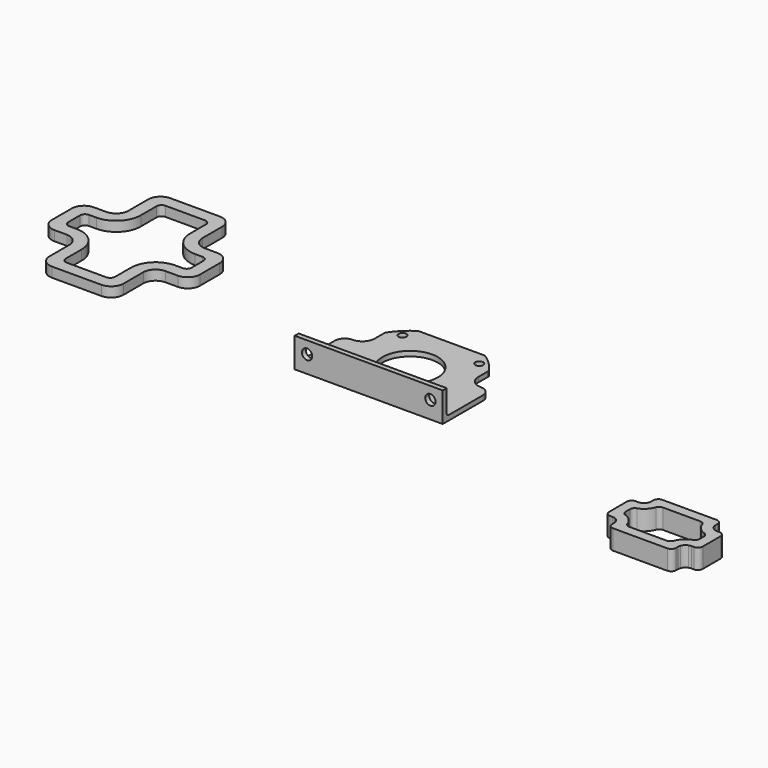
from build123d import *

# Parameters (mm, degrees)
F0_R      = 1.6
F0_R_2    = 11.2
F1_DEPTH  = 2
F2_DEPTH  = 12
F5_DEPTH  = 40
F6_DEPTH  = 20
F3_R      = 2.1
F7_DEPTH  = 25
F8_DEPTH  = 25
F9_R      = 1
F11_DEPTH = 4
F12_DEPTH = 8
F13_R     = 2


with BuildPart() as f1:
    # F0 (on Top) → F1 (new body)
    with BuildSketch(Plane.XY):
        with BuildLine():
            Line((13.5646599663, 21), (-13.5646599663, 21))
            ThreePointArc((-13.5646599663, 21), (-17.6776695297, 17.6776695297), (-21, 13.5646599663))
            Line((-21, 13.5646599663), (-21, 8.2917585839))
            ThreePointArc((-21, 8.2917585839), (-22.4644660941, 4.7562246779), (-26, 3.2917585839))
            ThreePointArc((-26, 3.2917585839), (-28.8284271247, 2.1201857086), (-30, -0.7082414161))
            Line((-30, -0.7082414161), (-30, -19))
            Line((-30, -19), (-21, -19))
            Line((-21, -19), (21, -19))
            Line((21, -19), (30, -19))
            Line((30, -19), (30, -0.7082414161))
            ThreePointArc((30, -0.7082414161), (28.8284271247, 2.1201857086), (26, 3.2917585839))
            ThreePointArc((26, 3.2917585839), (22.4644660941, 4.7562246779), (21, 8.2917585839))
            Line((21, 8.2917585839), (21, 13.5646599663))
            ThreePointArc((21, 13.5646599663), (17.6776695297, 17.6776695297), (13.5646599663, 21))
        make_face()
        with Locations((-15.5563491861, -15.5563491861)):
            Circle(F0_R, mode=Mode.SUBTRACT)
        with Locations((15.5563491861, -15.5563491861)):
            Circle(F0_R, mode=Mode.SUBTRACT)
        with Locations((-15.5563491861, 15.5563491861)):
            Circle(F0_R, mode=Mode.SUBTRACT)
        Circle(F0_R_2, mode=Mode.SUBTRACT)
        with Locations((15.5563491861, 15.5563491861)):
            Circle(F0_R, mode=Mode.SUBTRACT)
    extrude(amount=F1_DEPTH)

    # F0 (on Top) → F2 (join)
    with BuildSketch(Plane.XY):
        Polygon((-21, -19), (-30, -19), (-30, -21), (-21, -21), (21, -21), (30, -21), (30, -19), (21, -19), align=None)
    extrude(amount=F2_DEPTH)

    # F4 (on face) → F5 (join)
    with BuildSketch(Plane(origin=(-30, 0, 0), x_dir=(0, -1, 0), z_dir=(-1, 0, 0))):
        with BuildLine():
            ThreePointArc((19, 12), (16.0710678119, 4.9289321881), (9, 2))
            Line((9, 2), (19, 2))
            Line((19, 2), (19, 12))
        make_face()
    extrude(amount=-F5_DEPTH)

    # F4 (on face) → F6 (cut)
    with BuildSketch(Plane(origin=(-30, 0, 0), x_dir=(0, -1, 0), z_dir=(-1, 0, 0))):
        with BuildLine():
            ThreePointArc((19, 12), (16.0710678119, 4.9289321881), (9, 2))
            Line((9, 2), (19, 2))
            Line((19, 2), (19, 12))
        make_face()
    extrude(amount=-F6_DEPTH, mode=Mode.SUBTRACT)

    # F3 (on face) → F7 (cut)
    with BuildSketch(Plane(origin=(0, -19, 0), x_dir=(-1, 0, 0), z_dir=(0, 1, 0))):
        with Locations((-25, 7)):
            Circle(F3_R)
        with Locations((25, 7)):
            Circle(F3_R)
    extrude(amount=-F7_DEPTH, mode=Mode.SUBTRACT)

    # F0 (on Top) → F8 (cut)
    with BuildSketch(Plane.XY):
        Circle(F0_R_2)
    extrude(amount=F8_DEPTH, mode=Mode.SUBTRACT)

    # F9
    f9_edges = [f1.edges().sort_by_distance(p)[0] for p in [
        (-20, -19, 2),
        (20, -19, 2),
    ]]
    fillet(f9_edges, radius=F9_R)


with BuildPart() as f11:
    # F10 (on Top) → F11 (new body)
    with BuildSketch(Plane.XY):
        with BuildLine():
            Line((-129.2504328489, -19.9557282031), (-109.2504328489, -19.9557282031))
            ThreePointArc((-109.2504328489, -19.9557282031), (-105.714898943, -18.491262109), (-104.2504328489, -14.9557282031))
            Line((-104.2504328489, -14.9557282031), (-104.2504328489, -4.9557282031))
            ThreePointArc((-104.2504328489, -4.9557282031), (-102.7859667549, -1.4201942971), (-99.2504328489, 0.0442717969))
            Line((-99.2504328489, 0.0442717969), (-94.2504328489, 0.0442717969))
            ThreePointArc((-94.2504328489, 0.0442717969), (-90.714898943, 1.508737891), (-89.2504328489, 5.0442717969))
            Line((-89.2504328489, 5.0442717969), (-89.2504328489, 15.0442717969))
            ThreePointArc((-89.2504328489, 15.0442717969), (-90.714898943, 18.5798057029), (-94.2504328489, 20.0442717969))
            Line((-94.2504328489, 20.0442717969), (-99.2504328489, 20.0442717969))
            ThreePointArc((-99.2504328489, 20.0442717969), (-102.7859667549, 21.508737891), (-104.2504328489, 25.0442717969))
            Line((-104.2504328489, 25.0442717969), (-104.2504328489, 35.0442717969))
            ThreePointArc((-104.2504328489, 35.0442717969), (-105.714898943, 38.5798057029), (-109.2504328489, 40.0442717969))
            Line((-109.2504328489, 40.0442717969), (-129.2504328489, 40.0442717969))
            ThreePointArc((-129.2504328489, 40.0442717969), (-132.7859667549, 38.5798057029), (-134.2504328489, 35.0442717969))
            Line((-134.2504328489, 35.0442717969), (-134.2504328489, 25.0442717969))
            ThreePointArc((-134.2504328489, 25.0442717969), (-135.714898943, 21.508737891), (-139.2504328489, 20.0442717969))
            Line((-139.2504328489, 20.0442717969), (-144.2504328489, 20.0442717969))
            ThreePointArc((-144.2504328489, 20.0442717969), (-147.7859667549, 18.5798057029), (-149.2504328489, 15.0442717969))
            Line((-149.2504328489, 15.0442717969), (-149.2504328489, 5.0442717969))
            ThreePointArc((-149.2504328489, 5.0442717969), (-147.7859667549, 1.508737891), (-144.2504328489, 0.0442717969))
            Line((-144.2504328489, 0.0442717969), (-139.2504328489, 0.0442717969))
            ThreePointArc((-139.2504328489, 0.0442717969), (-135.714898943, -1.4201942971), (-134.2504328489, -4.9557282031))
            Line((-134.2504328489, -4.9557282031), (-134.2504328489, -14.9557282031))
            ThreePointArc((-134.2504328489, -14.9557282031), (-132.7859667549, -18.491262109), (-129.2504328489, -19.9557282031))
        make_face()
        with BuildLine():
            Line((-129.2504328489, 25.0442717969), (-129.2504328489, 33.0442717969))
            ThreePointArc((-129.2504328489, 33.0442717969), (-128.6646464113, 34.4584853593), (-127.2504328489, 35.0442717969))
            Line((-127.2504328489, 35.0442717969), (-111.2504328489, 35.0442717969))
            ThreePointArc((-111.2504328489, 35.0442717969), (-109.8362192866, 34.4584853593), (-109.2504328489, 33.0442717969))
            Line((-109.2504328489, 33.0442717969), (-109.2504328489, 25.0442717969))
            ThreePointArc((-109.2504328489, 25.0442717969), (-106.3215006608, 17.9732039851), (-99.2504328489, 15.0442717969))
            Line((-99.2504328489, 15.0442717969), (-96.2504328489, 15.0442717969))
            ThreePointArc((-96.2504328489, 15.0442717969), (-94.8362192866, 14.4584853593), (-94.2504328489, 13.0442717969))
            Line((-94.2504328489, 13.0442717969), (-94.2504328489, 7.0442717969))
            ThreePointArc((-94.2504328489, 7.0442717969), (-94.8362192866, 5.6300582346), (-96.2504328489, 5.0442717969))
            Line((-96.2504328489, 5.0442717969), (-99.2504328489, 5.0442717969))
            ThreePointArc((-99.2504328489, 5.0442717969), (-106.3215006608, 2.1153396088), (-109.2504328489, -4.9557282031))
            Line((-109.2504328489, -4.9557282031), (-109.2504328489, -12.9557282031))
            ThreePointArc((-109.2504328489, -12.9557282031), (-109.8362192866, -14.3699417654), (-111.2504328489, -14.9557282031))
            Line((-111.2504328489, -14.9557282031), (-127.2504328489, -14.9557282031))
            ThreePointArc((-127.2504328489, -14.9557282031), (-128.6646464113, -14.3699417654), (-129.2504328489, -12.9557282031))
            Line((-129.2504328489, -12.9557282031), (-129.2504328489, -4.9557282031))
            ThreePointArc((-129.2504328489, -4.9557282031), (-132.1793650371, 2.1153396088), (-139.2504328489, 5.0442717969))
            Line((-139.2504328489, 5.0442717969), (-142.2504328489, 5.0442717969))
            ThreePointArc((-142.2504328489, 5.0442717969), (-143.6646464113, 5.6300582346), (-144.2504328489, 7.0442717969))
            Line((-144.2504328489, 7.0442717969), (-144.2504328489, 13.0442717969))
            ThreePointArc((-144.2504328489, 13.0442717969), (-143.6646464113, 14.4584853593), (-142.2504328489, 15.0442717969))
            Line((-142.2504328489, 15.0442717969), (-139.2504328489, 15.0442717969))
            ThreePointArc((-139.2504328489, 15.0442717969), (-132.1793650371, 17.9732039851), (-129.2504328489, 25.0442717969))
        make_face(mode=Mode.SUBTRACT)
    extrude(amount=F11_DEPTH)


with BuildPart() as f12:
    # F10 (on Top) → F12 (new body)
    with BuildSketch(Plane.XY):
        with BuildLine():
            Line((122.3355861902, -40.0599342934), (122.3355861902, -35.9601581879))
            ThreePointArc((122.3355861902, -35.9601581879), (121.8428921264, -36.0885267421), (121.3355861902, -36.1317310631))
            Line((121.3355861902, -36.1317310631), (118.3355861902, -36.1317310631))
            Line((118.3355861902, -36.1317310631), (118.3355861902, -39.4562863835))
            ThreePointArc((118.3355861902, -39.4562863835), (120.2910299688, -40.0533567609), (122.3355861902, -40.0599342934))
        make_face()
        with BuildLine():
            Line((122.3355861902, -45.2035278329), (122.3355861902, -40.0599342934))
            ThreePointArc((122.3355861902, -40.0599342934), (120.2910299688, -40.0533567609), (118.3355861902, -39.4562863835))
            Line((118.3355861902, -39.4562863835), (118.3355861902, -45.8071757428))
            ThreePointArc((118.3355861902, -45.8071757428), (120.2910299688, -45.2101053653), (122.3355861902, -45.2035278329))
        make_face()
        with BuildLine():
            Line((122.3355861902, -49.3033039384), (122.3355861902, -45.2035278329))
            ThreePointArc((122.3355861902, -45.2035278329), (120.2910299688, -45.2101053653), (118.3355861902, -45.8071757428))
            Line((118.3355861902, -45.8071757428), (118.3355861902, -49.1317310631))
            Line((118.3355861902, -49.1317310631), (121.3355861902, -49.1317310631))
            ThreePointArc((121.3355861902, -49.1317310631), (121.8428921264, -49.1749353842), (122.3355861902, -49.3033039384))
        make_face()
        with BuildLine():
            ThreePointArc((128.2637894205, -51.1317310631), (126.2853336585, -47.1819835948), (122.3355861902, -45.2035278329))
            Line((122.3355861902, -45.2035278329), (122.3355861902, -49.3033039384))
            ThreePointArc((122.3355861902, -49.3033039384), (123.4569065338, -50.0104107196), (124.164013315, -51.1317310631))
            Line((124.164013315, -51.1317310631), (128.2637894205, -51.1317310631))
        make_face()
        with BuildLine():
            ThreePointArc((128.3355861902, -52.1317310631), (128.3176139262, -51.6304440256), (128.2637894205, -51.1317310631))
            Line((128.2637894205, -51.1317310631), (124.164013315, -51.1317310631))
            ThreePointArc((124.164013315, -51.1317310631), (124.2923818692, -51.624425127), (124.3355861902, -52.1317310631))
            Line((124.3355861902, -52.1317310631), (124.3355861902, -55.1317310631))
            Line((124.3355861902, -55.1317310631), (127.6601415106, -55.1317310631))
            ThreePointArc((127.6601415106, -55.1317310631), (128.164637634, -53.6692798847), (128.3355861902, -52.1317310631))
        make_face()
        with BuildLine():
            Line((146.4073829599, -51.1317310631), (128.2637894205, -51.1317310631))
            ThreePointArc((128.2637894205, -51.1317310631), (128.3176139262, -51.6304440256), (128.3355861902, -52.1317310631))
            ThreePointArc((128.3355861902, -52.1317310631), (128.164637634, -53.6692798847), (127.6601415106, -55.1317310631))
            Line((127.6601415106, -55.1317310631), (147.0110308699, -55.1317310631))
            ThreePointArc((147.0110308699, -55.1317310631), (146.4139604924, -53.1762872846), (146.4073829599, -51.1317310631))
        make_face()
        with BuildLine():
            Line((150.5071590655, -51.1317310631), (146.4073829599, -51.1317310631))
            ThreePointArc((146.4073829599, -51.1317310631), (146.4139604924, -53.1762872846), (147.0110308699, -55.1317310631))
            Line((147.0110308699, -55.1317310631), (150.3355861902, -55.1317310631))
            Line((150.3355861902, -55.1317310631), (150.3355861902, -52.1317310631))
            ThreePointArc((150.3355861902, -52.1317310631), (150.3787905113, -51.624425127), (150.5071590655, -51.1317310631))
        make_face()
        with BuildLine():
            Line((152.3355861902, -49.3033039384), (152.3355861902, -45.2035278329))
            ThreePointArc((152.3355861902, -45.2035278329), (148.3858387219, -47.1819835948), (146.4073829599, -51.1317310631))
            Line((146.4073829599, -51.1317310631), (150.5071590655, -51.1317310631))
            ThreePointArc((150.5071590655, -51.1317310631), (151.2142658467, -50.0104107196), (152.3355861902, -49.3033039384))
        make_face()
        with BuildLine():
            ThreePointArc((156.3355861902, -45.8071757428), (154.3801424117, -45.2101053653), (152.3355861902, -45.2035278329))
            Line((152.3355861902, -45.2035278329), (152.3355861902, -49.3033039384))
            ThreePointArc((152.3355861902, -49.3033039384), (152.828280254, -49.1749353842), (153.3355861902, -49.1317310631))
            Line((153.3355861902, -49.1317310631), (156.3355861902, -49.1317310631))
            Line((156.3355861902, -49.1317310631), (156.3355861902, -45.8071757428))
        make_face()
        with BuildLine():
            ThreePointArc((156.3355861902, -39.4562863835), (154.3801424117, -40.0533567609), (152.3355861902, -40.0599342934))
            Line((152.3355861902, -40.0599342934), (152.3355861902, -45.2035278329))
            ThreePointArc((152.3355861902, -45.2035278329), (154.3801424117, -45.2101053653), (156.3355861902, -45.8071757428))
            Line((156.3355861902, -45.8071757428), (156.3355861902, -39.4562863835))
        make_face()
        with BuildLine():
            Line((152.3355861902, -35.9601581879), (152.3355861902, -40.0599342934))
            ThreePointArc((152.3355861902, -40.0599342934), (154.3801424117, -40.0533567609), (156.3355861902, -39.4562863835))
            Line((156.3355861902, -39.4562863835), (156.3355861902, -36.1317310631))
            Line((156.3355861902, -36.1317310631), (153.3355861902, -36.1317310631))
            ThreePointArc((153.3355861902, -36.1317310631), (152.828280254, -36.0885267421), (152.3355861902, -35.9601581879))
        make_face()
        with BuildLine():
            Line((150.5071590655, -34.1317310631), (146.4073829599, -34.1317310631))
            ThreePointArc((146.4073829599, -34.1317310631), (148.3858387219, -38.0814785314), (152.3355861902, -40.0599342934))
            Line((152.3355861902, -40.0599342934), (152.3355861902, -35.9601581879))
            ThreePointArc((152.3355861902, -35.9601581879), (151.2142658467, -35.2530514067), (150.5071590655, -34.1317310631))
        make_face()
        with BuildLine():
            ThreePointArc((147.0110308699, -30.1317310631), (146.4139604924, -32.0871748417), (146.4073829599, -34.1317310631))
            Line((146.4073829599, -34.1317310631), (150.5071590655, -34.1317310631))
            ThreePointArc((150.5071590655, -34.1317310631), (150.3787905113, -33.6390369993), (150.3355861902, -33.1317310631))
            Line((150.3355861902, -33.1317310631), (150.3355861902, -30.1317310631))
            Line((150.3355861902, -30.1317310631), (147.0110308699, -30.1317310631))
        make_face()
        with BuildLine():
            ThreePointArc((128.3355861902, -33.1317310631), (128.3176139262, -33.6330181007), (128.2637894205, -34.1317310631))
            Line((128.2637894205, -34.1317310631), (146.4073829599, -34.1317310631))
            ThreePointArc((146.4073829599, -34.1317310631), (146.4139604924, -32.0871748417), (147.0110308699, -30.1317310631))
            Line((147.0110308699, -30.1317310631), (127.6601415106, -30.1317310631))
            ThreePointArc((127.6601415106, -30.1317310631), (128.164637634, -31.5941822415), (128.3355861902, -33.1317310631))
        make_face()
        with BuildLine():
            Line((124.3355861902, -30.1317310631), (124.3355861902, -33.1317310631))
            ThreePointArc((124.3355861902, -33.1317310631), (124.2923818692, -33.6390369993), (124.164013315, -34.1317310631))
            Line((124.164013315, -34.1317310631), (128.2637894205, -34.1317310631))
            ThreePointArc((128.2637894205, -34.1317310631), (128.3176139262, -33.6330181007), (128.3355861902, -33.1317310631))
            ThreePointArc((128.3355861902, -33.1317310631), (128.164637634, -31.5941822415), (127.6601415106, -30.1317310631))
            Line((127.6601415106, -30.1317310631), (124.3355861902, -30.1317310631))
        make_face()
        with BuildLine():
            Line((128.2637894205, -34.1317310631), (124.164013315, -34.1317310631))
            ThreePointArc((124.164013315, -34.1317310631), (123.4569065338, -35.2530514067), (122.3355861902, -35.9601581879))
            Line((122.3355861902, -35.9601581879), (122.3355861902, -40.0599342934))
            ThreePointArc((122.3355861902, -40.0599342934), (126.2853336585, -38.0814785314), (128.2637894205, -34.1317310631))
        make_face()
    extrude(amount=F12_DEPTH)

    # F13
    f13_edges = [f12.edges().sort_by_distance(p)[0] for p in [
        (122.335586, -40.059934, 4),
        (128.263789, -34.131731, 4),
        (150.335586, -55.131731, 4),
        (156.335586, -49.131731, 4),
        (124.335586, -55.131731, 4),
        (118.335586, -49.131731, 4),
        (122.335586, -45.203528, 4),
        (128.263789, -51.131731, 4),
        (146.407383, -51.131731, 4),
        (152.335586, -45.203528, 4),
        (152.335586, -40.059934, 4),
        (146.407383, -34.131731, 4),
        (118.335586, -36.131731, 4),
        (124.335586, -30.131731, 4),
        (150.335586, -30.131731, 4),
        (156.335586, -36.131731, 4),
    ]]
    fillet(f13_edges, radius=F13_R)


solid = Compound([f1.part, f11.part, f12.part])
